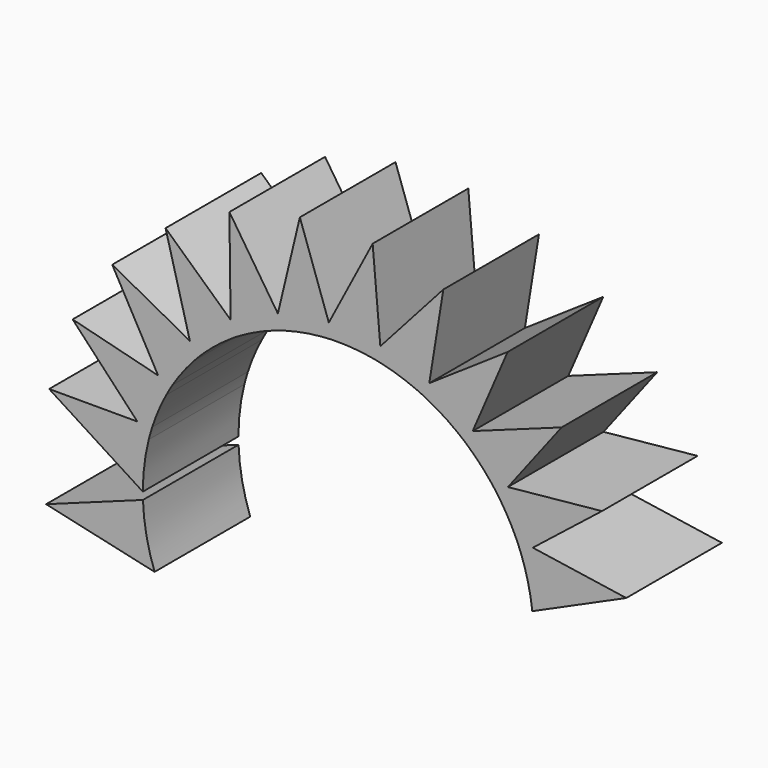
from build123d import *

# Parameters (mm, degrees)
F1_DEPTH = 25.4


with BuildPart() as f1:
    # F0 (on Front) → F1 (new body)
    with BuildSketch(Plane.XZ):
        with BuildLine():
            ThreePointArc((-38.99411, -14.192695), (-40.725516, -7.962757), (-41.468098, -1.539482))
            Line((-41.468098, -1.539482), (-62.048898, -9.03028))
            Line((-62.048898, -9.03028), (-38.99411, -14.192695))
        make_face()
        with BuildLine():
            ThreePointArc((40.866237, 7.20582), (41.077933, 5.880187), (41.246639, 4.548401))
            Line((41.246639, 4.548401), (44.134154, 5.844083))
            Line((44.134154, 5.844083), (40.866237, 7.20582))
        make_face()
        with BuildLine():
            ThreePointArc((38.99411, 14.192695), (40.0827, 10.740127), (40.866237, 7.20582))
            Line((40.866237, 7.20582), (44.134154, 5.844083))
            Line((44.134154, 5.844083), (61.228775, 13.51476))
            Line((61.228775, 13.51476), (41.361641, 16.467892))
            Line((41.361641, 16.467892), (38.879051, 14.504915))
            ThreePointArc((38.879051, 14.504915), (38.936893, 14.34892), (38.99411, 14.192695))
        make_face()
        with BuildLine():
            ThreePointArc((37.859832, 16.988416), (38.38953, 15.754909), (38.879051, 14.504915))
            Line((38.879051, 14.504915), (41.361641, 16.467892))
            Line((41.361641, 16.467892), (37.859832, 16.988416))
        make_face()
        with BuildLine():
            Line((37.859832, 16.988416), (41.361641, 16.467892))
            Line((41.361641, 16.467892), (56.059032, 28.089083))
            Line((56.059032, 28.089083), (36.07334, 26.090055))
            Line((36.07334, 26.090055), (34.146676, 23.579179))
            ThreePointArc((34.146676, 23.579179), (34.240938, 23.442085), (34.334649, 23.304614))
            ThreePointArc((34.334649, 23.304614), (36.235126, 20.223471), (37.859832, 16.988416))
        make_face()
        with BuildLine():
            Line((32.550634, 25.737704), (36.07334, 26.090055))
            Line((36.07334, 26.090055), (47.479543, 40.95491))
            Line((47.479543, 40.95491), (28.590906, 34.125312))
            Line((28.590906, 34.125312), (27.337357, 31.219258))
            ThreePointArc((27.337357, 31.219258), (27.462305, 31.109404), (27.586811, 30.999049))
            ThreePointArc((27.586811, 30.999049), (30.18358, 28.476739), (32.550634, 25.737704))
        make_face()
        with BuildLine():
            Line((34.146676, 23.579179), (36.07334, 26.090055))
            Line((36.07334, 26.090055), (32.550634, 25.737704))
            ThreePointArc((32.550634, 25.737704), (33.366115, 24.671351), (34.146676, 23.579179))
        make_face()
        with BuildLine():
            Line((25.261569, 32.921517), (28.590906, 34.125312))
            Line((28.590906, 34.125312), (36.012149, 51.329687))
            Line((36.012149, 51.329687), (19.369454, 40.084923))
            Line((19.369454, 40.084923), (18.865265, 36.960451))
            ThreePointArc((18.865265, 36.960451), (22.155645, 35.087043), (25.261569, 32.921517))
        make_face()
        with BuildLine():
            Line((27.337357, 31.219258), (28.590906, 34.125312))
            Line((28.590906, 34.125312), (25.261569, 32.921517))
            ThreePointArc((25.261569, 32.921517), (26.313232, 32.087178), (27.337357, 31.219258))
        make_face()
        with BuildLine():
            Line((16.435989, 38.102906), (19.369454, 40.084923))
            Line((19.369454, 40.084923), (22.354345, 58.582377))
            Line((22.354345, 58.582377), (8.96987, 43.606402))
            Line((8.96987, 43.606402), (9.245708, 40.453554))
            ThreePointArc((9.245708, 40.453554), (12.894525, 39.442419), (16.435989, 38.102906))
        make_face()
        with BuildLine():
            Line((18.865265, 36.960451), (19.369454, 40.084923))
            Line((19.369454, 40.084923), (16.435989, 38.102906))
            ThreePointArc((16.435989, 38.102906), (17.659868, 37.551328), (18.865265, 36.960451))
        make_face()
        with BuildLine():
            Line((6.610704, 40.966715), (8.96987, 43.606402))
            Line((8.96987, 43.606402), (7.336855, 62.271841))
            Line((7.336855, 62.271841), (-1.975299, 44.475555))
            Line((-1.975299, 44.475555), (-0.936211, 41.486102))
            ThreePointArc((-0.936211, 41.486102), (2.849106, 41.398741), (6.610704, 40.966715))
        make_face()
        with BuildLine():
            Line((9.245708, 40.453554), (8.96987, 43.606402))
            Line((8.96987, 43.606402), (6.610704, 40.966715))
            ThreePointArc((6.610704, 40.966715), (7.932357, 40.731448), (9.245708, 40.453554))
        make_face()
        with BuildLine():
            Line((-3.616673, 41.338757), (-1.975299, 44.475555))
            Line((-1.975299, 44.475555), (-8.126892, 62.17367))
            Line((-8.126892, 62.17367), (-12.800322, 42.639519))
            Line((-12.800322, 42.639519), (-11.061187, 39.995291))
            ThreePointArc((-11.061187, 39.995291), (-7.369607, 40.837018), (-3.616673, 41.338757))
        make_face()
        with BuildLine():
            Line((-0.936211, 41.486102), (-1.975299, 44.475555))
            Line((-1.975299, 44.475555), (-3.616673, 41.338757))
            ThreePointArc((-3.616673, 41.338757), (-2.277634, 41.434111), (-0.936211, 41.486102))
        make_face()
        with BuildLine():
            Line((-13.624068, 39.196402), (-12.800322, 42.639519))
            Line((-12.800322, 42.639519), (-23.096329, 58.293836))
            Line((-23.096329, 58.293836), (-22.846776, 38.209968))
            Line((-22.846776, 38.209968), (-20.513374, 36.071799))
            ThreePointArc((-20.513374, 36.071799), (-17.140071, 37.791416), (-13.624068, 39.196402))
        make_face()
        with BuildLine():
            Line((-11.061187, 39.995291), (-12.800322, 42.639519))
            Line((-12.800322, 42.639519), (-13.624068, 39.196402))
            ThreePointArc((-13.624068, 39.196402), (-12.349089, 39.616577), (-11.061187, 39.995291))
        make_face()
        with BuildLine():
            Line((-22.80279, 34.669957), (-22.846776, 38.209968))
            Line((-22.846776, 38.209968), (-36.660949, 50.868325))
            Line((-36.660949, 50.868325), (-31.503593, 31.456326))
            Line((-31.503593, 31.456326), (-28.717852, 29.954268))
            ThreePointArc((-28.717852, 29.954268), (-25.868003, 32.447182), (-22.80279, 34.669957))
        make_face()
        with BuildLine():
            Line((-20.513374, 36.071799), (-22.846776, 38.209968))
            Line((-22.846776, 38.209968), (-22.80279, 34.669957))
            ThreePointArc((-22.80279, 34.669957), (-21.669421, 35.389396), (-20.513374, 36.071799))
        make_face()
        with BuildLine():
            Line((-30.59455, 28.03474), (-31.503593, 31.456326))
            Line((-31.503593, 31.456326), (-47.995696, 40.348789))
            Line((-47.995696, 40.348789), (-38.244229, 22.789378))
            Line((-38.244229, 22.789378), (-35.175589, 22.014793))
            ThreePointArc((-35.175589, 22.014793), (-33.022534, 25.129373), (-30.59455, 28.03474))
        make_face()
        with BuildLine():
            Line((-28.717852, 29.954268), (-31.503593, 31.456326))
            Line((-31.503593, 31.456326), (-30.59455, 28.03474))
            ThreePointArc((-30.59455, 28.03474), (-29.671727, 29.009684), (-28.717852, 29.954268))
        make_face()
        with BuildLine():
            Line((-36.525422, 19.694332), (-38.244229, 22.789378))
            Line((-38.244229, 22.789378), (-56.411144, 27.375071))
            Line((-56.411144, 27.375071), (-42.65869, 12.736285))
            Line((-42.65869, 12.736285), (-39.4938, 12.736285))
            ThreePointArc((-39.4938, 12.736285), (-38.168496, 16.283091), (-36.525422, 19.694332))
        make_face()
        with BuildLine():
            Line((-35.175589, 22.014793), (-38.244229, 22.789378))
            Line((-38.244229, 22.789378), (-36.525422, 19.694332))
            ThreePointArc((-36.525422, 19.694332), (-35.869275, 20.865481), (-35.175589, 22.014793))
        make_face()
        with BuildLine():
            Line((-40.234664, 10.156032), (-42.65869, 12.736285))
            Line((-42.65869, 12.736285), (-61.395429, 12.736285))
            Line((-61.395429, 12.736285), (-41.496665, 0))
            ThreePointArc((-41.496665, 0), (-41.179956, 5.11707), (-40.234664, 10.156032))
        make_face()
        with BuildLine():
            Line((-39.4938, 12.736285), (-42.65869, 12.736285))
            Line((-42.65869, 12.736285), (-40.234664, 10.156032))
            ThreePointArc((-40.234664, 10.156032), (-39.885103, 11.452151), (-39.4938, 12.736285))
        make_face()
    extrude(amount=F1_DEPTH)


solid = f1.part
